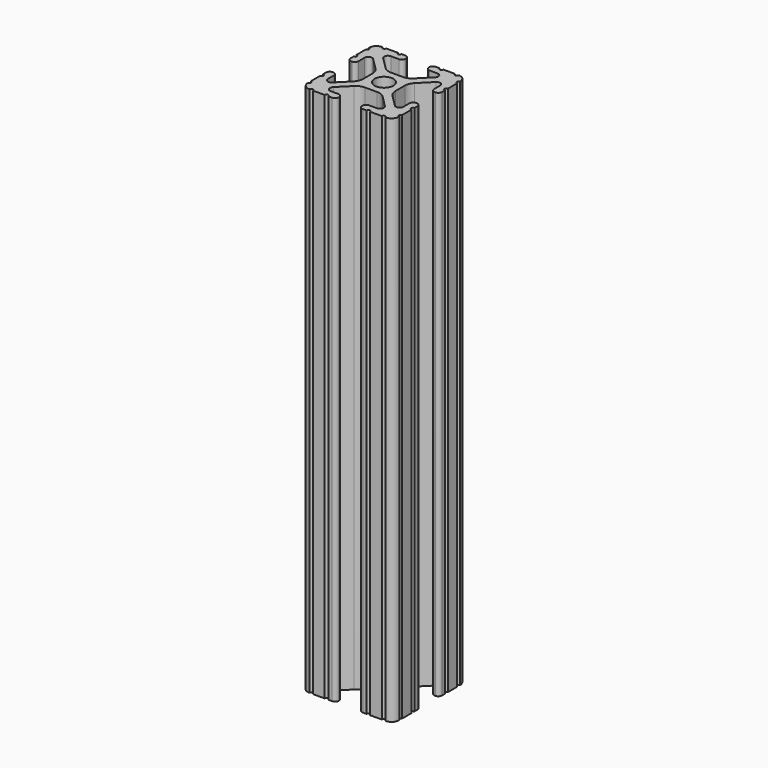
from build123d import *

# Parameters (mm, degrees)
SKETCH097_R   = 2.6035
EXTRUDE_DEPTH = 147.637


with BuildPart() as part:
    # Sketch097 → Extrude (new body)
    with BuildSketch(Plane.XY):
        with BuildLine():
            ThreePointArc((12.7, 6.333084), (12.192, 5.825084), (12.7, 5.317084))
            Line((12.7, 4.287469), (12.7, 5.317084))
            ThreePointArc((11.650988, 3.238457), (12.392751, 3.545706), (12.7, 4.287469))
            Line((11.539212, 3.238457), (11.650988, 3.238457))
            ThreePointArc((10.4902, 4.287469), (10.797449, 3.545706), (11.539212, 3.238457))
            Line((10.4902, 6.402089), (10.4902, 4.287469))
            ThreePointArc((10.4902, 6.402089), (9.856505, 7.351068), (8.737131, 7.129409))
            Line((5.441006, 3.840816), (8.737131, 7.129409))
            ThreePointArc((5.441006, 3.840816), (4.750878, 2.809883), (4.5085, 1.593186))
            Line((4.5085, -1.593186), (4.5085, 1.593186))
            ThreePointArc((4.5085, -1.593186), (4.750878, -2.809883), (5.441006, -3.840816))
            Line((8.737131, -7.129409), (5.441006, -3.840816))
            ThreePointArc((8.737131, -7.129409), (9.856505, -7.351068), (10.4902, -6.402089))
            Line((10.4902, -4.287469), (10.4902, -6.402089))
            ThreePointArc((11.539212, -3.238457), (10.797449, -3.545706), (10.4902, -4.287469))
            Line((11.650988, -3.238457), (11.539212, -3.238457))
            ThreePointArc((12.7, -4.287469), (12.392751, -3.545706), (11.650988, -3.238457))
            Line((12.7, -5.317084), (12.7, -4.287469))
            ThreePointArc((12.7, -5.317084), (12.192, -5.825084), (12.7, -6.333084))
            Line((12.7, -9.5504), (12.7, -6.333084))
            ThreePointArc((12.7, -9.5504), (12.192, -10.058323), (12.699847, -10.5664))
            ThreePointArc((10.566443, -12.699848), (12.082538, -12.082507), (12.699847, -10.5664))
            ThreePointArc((10.566443, -12.699848), (10.058367, -12.192), (9.550443, -12.7))
            Line((6.333127, -12.7), (9.550443, -12.7))
            ThreePointArc((6.333127, -12.7), (5.825127, -12.192), (5.317127, -12.7))
            Line((4.287512, -12.7), (5.317127, -12.7))
            ThreePointArc((3.2385, -11.650988), (3.545749, -12.392751), (4.287512, -12.7))
            Line((3.2385, -11.539212), (3.2385, -11.650988))
            ThreePointArc((4.287512, -10.4902), (3.545749, -10.797449), (3.2385, -11.539212))
            Line((6.416408, -10.4902), (4.287512, -10.4902))
            ThreePointArc((6.416408, -10.4902), (7.414731, -9.822813), (7.17965, -8.645193))
            Line((3.95227, -5.42369), (7.17965, -8.645193))
            ThreePointArc((3.95227, -5.42369), (2.922936, -4.736929), (1.709254, -4.4958))
            Line((-1.709254, -4.4958), (1.709254, -4.4958))
            ThreePointArc((-1.709254, -4.4958), (-2.922936, -4.736929), (-3.95227, -5.42369))
            Line((-7.17965, -8.645193), (-3.95227, -5.42369))
            ThreePointArc((-7.17965, -8.645193), (-7.414731, -9.822813), (-6.416408, -10.4902))
            Line((-4.287512, -10.4902), (-6.416408, -10.4902))
            ThreePointArc((-3.2385, -11.539212), (-3.545749, -10.797449), (-4.287512, -10.4902))
            Line((-3.2385, -11.650988), (-3.2385, -11.539212))
            ThreePointArc((-4.287512, -12.7), (-3.545749, -12.392751), (-3.2385, -11.650988))
            Line((-5.317127, -12.7), (-4.287512, -12.7))
            ThreePointArc((-5.317127, -12.7), (-5.825127, -12.192), (-6.333127, -12.7))
            Line((-9.550443, -12.7), (-6.333127, -12.7))
            ThreePointArc((-9.550443, -12.7), (-10.058367, -12.192), (-10.566443, -12.699848))
            ThreePointArc((-12.699847, -10.5664), (-12.082538, -12.082507), (-10.566443, -12.699848))
            ThreePointArc((-12.699847, -10.5664), (-12.192, -10.058323), (-12.7, -9.5504))
            Line((-12.7, -6.333084), (-12.7, -9.5504))
            ThreePointArc((-12.7, -6.333084), (-12.192, -5.825084), (-12.7, -5.317084))
            Line((-12.7, -4.287469), (-12.7, -5.317084))
            ThreePointArc((-11.650988, -3.238457), (-12.392751, -3.545706), (-12.7, -4.287469))
            Line((-11.539212, -3.238457), (-11.650988, -3.238457))
            ThreePointArc((-10.4902, -4.287469), (-10.797449, -3.545706), (-11.539212, -3.238457))
            Line((-10.4902, -6.402089), (-10.4902, -4.287469))
            ThreePointArc((-10.4902, -6.402089), (-9.856505, -7.351068), (-8.737131, -7.129409))
            Line((-5.441006, -3.840816), (-8.737131, -7.129409))
            ThreePointArc((-5.441006, -3.840816), (-4.750878, -2.809883), (-4.5085, -1.593186))
            Line((-4.5085, 1.593186), (-4.5085, -1.593186))
            ThreePointArc((-4.5085, 1.593186), (-4.750878, 2.809883), (-5.441006, 3.840816))
            Line((-8.737131, 7.129409), (-5.441006, 3.840816))
            ThreePointArc((-8.737131, 7.129409), (-9.856505, 7.351068), (-10.4902, 6.402089))
            Line((-10.4902, 4.287469), (-10.4902, 6.402089))
            ThreePointArc((-11.539212, 3.238457), (-10.797449, 3.545706), (-10.4902, 4.287469))
            Line((-11.650988, 3.238457), (-11.539212, 3.238457))
            ThreePointArc((-12.7, 4.287469), (-12.392751, 3.545706), (-11.650988, 3.238457))
            Line((-12.7, 5.317084), (-12.7, 4.287469))
            ThreePointArc((-12.7, 5.317084), (-12.192, 5.825084), (-12.7, 6.333084))
            Line((-12.7, 9.5504), (-12.7, 6.333084))
            ThreePointArc((-12.7, 9.5504), (-12.192, 10.058323), (-12.699847, 10.5664))
            ThreePointArc((-10.566443, 12.699848), (-12.082538, 12.082507), (-12.699847, 10.5664))
            ThreePointArc((-10.566443, 12.699848), (-10.058367, 12.192), (-9.550443, 12.7))
            Line((-6.333127, 12.7), (-9.550443, 12.7))
            ThreePointArc((-6.333127, 12.7), (-5.825127, 12.192), (-5.317127, 12.7))
            Line((-4.287512, 12.7), (-5.317127, 12.7))
            ThreePointArc((-3.2385, 11.650988), (-3.545749, 12.392751), (-4.287512, 12.7))
            Line((-3.2385, 11.539212), (-3.2385, 11.650988))
            ThreePointArc((-4.287512, 10.4902), (-3.545749, 10.797449), (-3.2385, 11.539212))
            Line((-6.476789, 10.4902), (-4.287512, 10.4902))
            ThreePointArc((-6.476789, 10.4902), (-7.432222, 9.851404), (-7.207036, 8.724371))
            Line((-3.898273, 5.423169), (-7.207036, 8.724371))
            ThreePointArc((-3.898273, 5.423169), (-2.86912, 4.736788), (-1.655778, 4.4958))
            Line((1.655778, 4.4958), (-1.655778, 4.4958))
            ThreePointArc((1.655778, 4.4958), (2.86912, 4.736788), (3.898273, 5.423169))
            Line((7.207036, 8.724371), (3.898273, 5.423169))
            ThreePointArc((7.207036, 8.724371), (7.432222, 9.851404), (6.476789, 10.4902))
            Line((4.287512, 10.4902), (6.476789, 10.4902))
            ThreePointArc((3.2385, 11.539212), (3.545749, 10.797449), (4.287512, 10.4902))
            Line((3.2385, 11.650988), (3.2385, 11.539212))
            ThreePointArc((4.287512, 12.7), (3.545749, 12.392751), (3.2385, 11.650988))
            Line((5.317127, 12.7), (4.287512, 12.7))
            ThreePointArc((5.317127, 12.7), (5.825127, 12.192), (6.333127, 12.7))
            Line((9.550443, 12.7), (6.333127, 12.7))
            ThreePointArc((9.550443, 12.7), (10.058367, 12.192), (10.566443, 12.699848))
            ThreePointArc((12.699847, 10.5664), (12.082538, 12.082507), (10.566443, 12.699848))
            ThreePointArc((12.699847, 10.5664), (12.192, 10.058323), (12.7, 9.5504))
            Line((12.7, 6.333084), (12.7, 9.5504))
        make_face()
        Circle(SKETCH097_R, mode=Mode.SUBTRACT)
    extrude(amount=EXTRUDE_DEPTH)


solid = part.part
